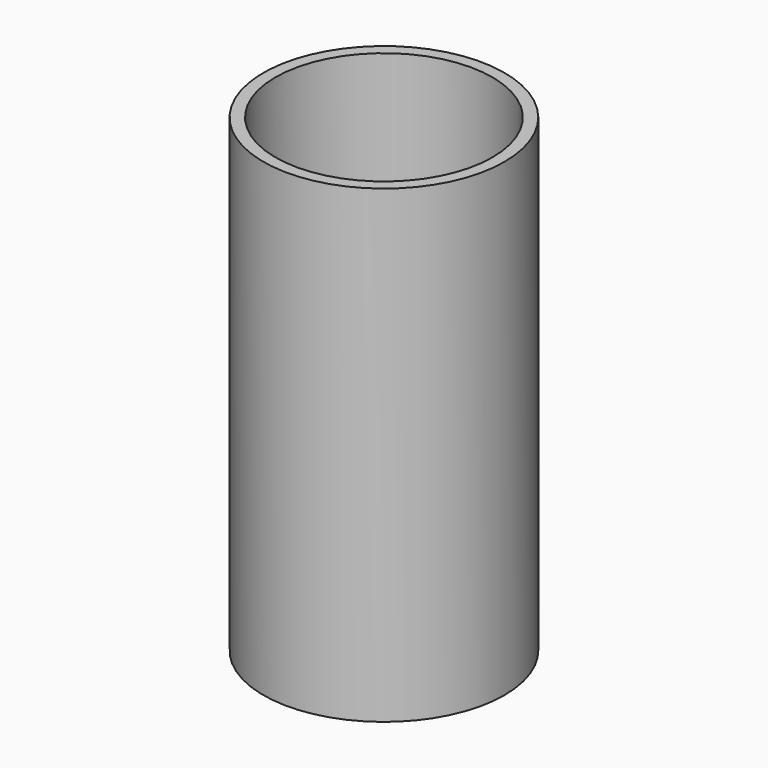
from build123d import *

# Parameters (mm, degrees)
F0_R     = 9.5
F1_DEPTH = 37
F2_R     = 7
F3_DEPTH = 36
F2_R_2   = 8.55
F4_DEPTH = 12


with BuildPart() as f1:
    # F0 (on Top) → F1 (new body)
    with BuildSketch(Plane.XY):
        Circle(F0_R)
    extrude(amount=F1_DEPTH)

    # F2 (on face) → F3 (cut)
    with BuildSketch(Plane.XY.offset(37)):
        Circle(F2_R)
    extrude(amount=-F3_DEPTH, mode=Mode.SUBTRACT)

    # F2 (on face) → F4 (cut)
    with BuildSketch(Plane.XY.offset(37)):
        Circle(F2_R_2)
        Circle(F2_R, mode=Mode.SUBTRACT)
    extrude(amount=-F4_DEPTH, mode=Mode.SUBTRACT)


solid = f1.part
